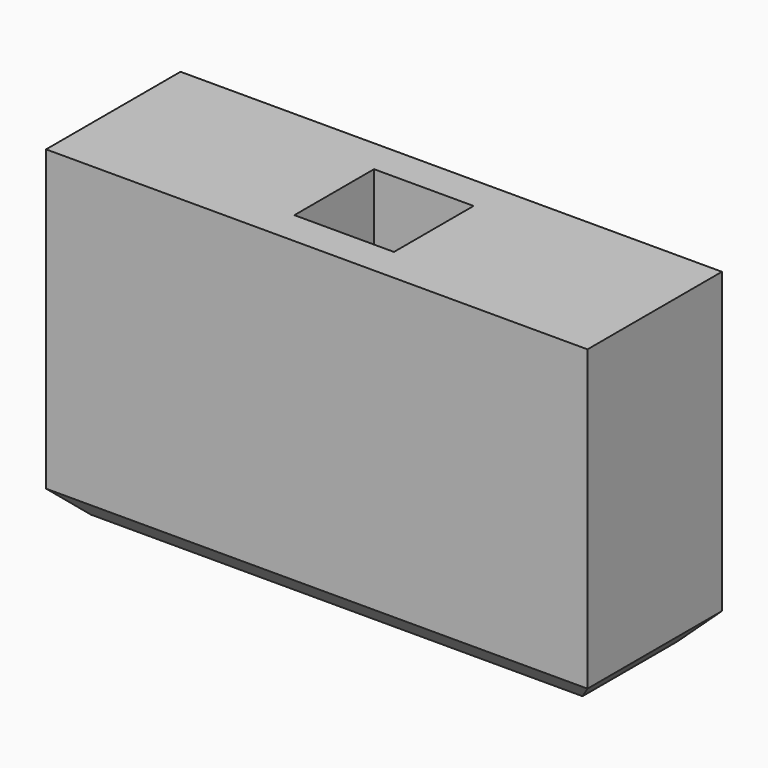
from build123d import *

# Parameters (mm, degrees)
SKETCH_W     = 21.75
SKETCH_H     = 6.75
PAD_DEPTH    = 13
SKETCH001_W  = 4
SKETCH001_H  = 4
POCKET_DEPTH = 10
CHAMFER_SIZE = 1


with BuildPart() as part:
    # Sketch → Pad (new body)
    with BuildSketch(Plane.XY):
        Rectangle(SKETCH_W, SKETCH_H)
    extrude(amount=PAD_DEPTH)

    # Sketch001 (on Face6 of Pad) → Pocket (cut)
    with BuildSketch(Plane.XY.offset(13)):
        Rectangle(SKETCH001_W, SKETCH001_H)
    extrude(amount=-POCKET_DEPTH, mode=Mode.SUBTRACT)

    # Chamfer
    chamfer_edges = [part.edges().sort_by_distance(p)[0] for p in [
        (0, 3.375, 0),
        (10.875, 0, 0),
        (0, -3.375, 0),
        (-10.875, 0, 0),
    ]]
    chamfer(chamfer_edges, length=CHAMFER_SIZE)


solid = part.part
